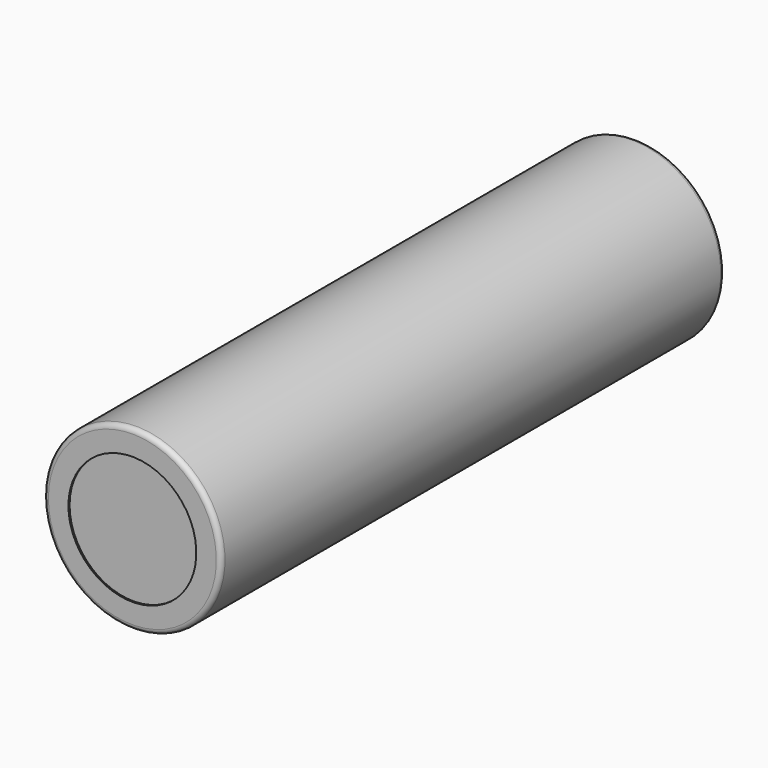
from build123d import *

# Parameters (mm, degrees)
SKETCH005_R             = 9.2
PAD003_DEPTH            = 65.2
SKETCH006_R             = 5
POCKET002_DEPTH         = 1
SKETCH007_R             = 4
PAD004_DEPTH            = 1
SKETCH008_R             = 6.625
POCKET003_DEPTH         = 0.15
FILLET001_R             = 0.5
BODY001_PLACEMENT_ANGLE = 180


with BuildPart() as part:
    # Sketch005 → Pad003 (new body)
    with BuildSketch(Plane.XZ):
        Circle(SKETCH005_R)
    extrude(amount=PAD003_DEPTH)

    # Sketch006 (on Face3 of Pad003) → Pocket002 (cut)
    with BuildSketch(Plane.XZ.offset(65.2)):
        Circle(SKETCH006_R)
    extrude(amount=-POCKET002_DEPTH, mode=Mode.SUBTRACT)

    # Sketch007 (on Face5 of Pocket002) → Pad004 (join)
    with BuildSketch(Plane.XZ.offset(64.2)):
        Circle(SKETCH007_R)
    extrude(amount=PAD004_DEPTH)

    # Sketch008 (on Face2 of Pad004) → Pocket003 (cut)
    with BuildSketch(Plane(origin=(0, 0, 0), x_dir=(1, 0, 0), z_dir=(0, 1, 0))):
        Circle(SKETCH008_R)
    extrude(amount=-POCKET003_DEPTH, mode=Mode.SUBTRACT)

    # Fillet001
    fillet001_edges = [part.edges().sort_by_distance(p)[0] for p in [
        (-4, -65.2, 0),
        (-9.2, -65.2, 0),
        (-9.2, 0, 0),
    ]]
    fillet(fillet001_edges, radius=FILLET001_R)


with BuildPart() as part_1:
    # Body001 placement: moved
    add(part.part.moved(Location((0, -65, 0))).rotate(Axis((0, -65, 0), (0, 0, 1)), BODY001_PLACEMENT_ANGLE))


solid = part_1.part
